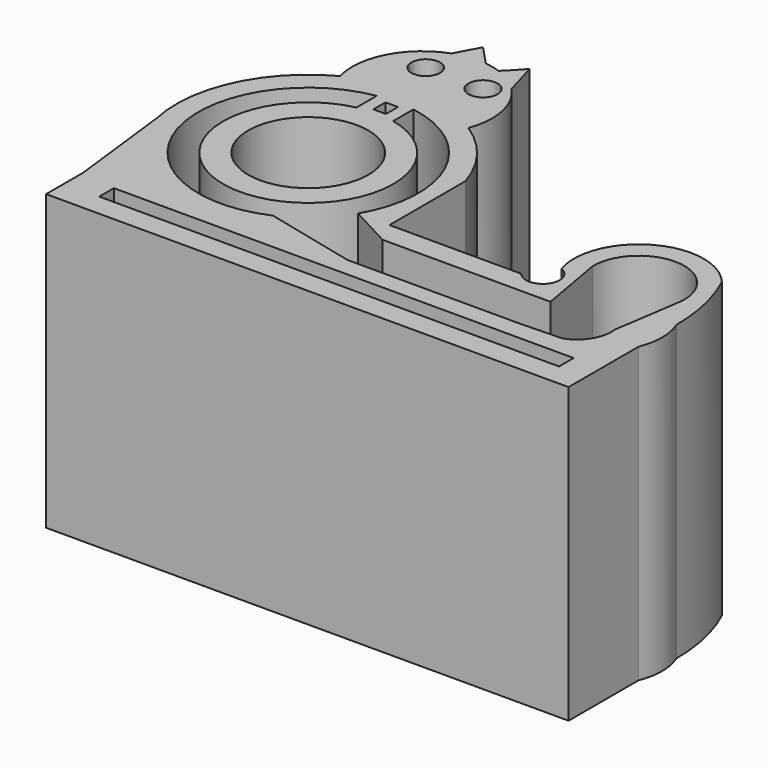
from build123d import *

# Parameters (mm, degrees)
F0_R     = 15.340431
F0_W     = 117.403897
F0_H     = 4.661302
F0_W_2   = 3.196411
F0_H_2   = 3.862329
F0_R_2   = 3.64723
F0_R_3   = 3.720558
F1_DEPTH = 75


with BuildPart() as f1:
    # F0 (on Top) → F1 (new body)
    with BuildSketch(Plane.XY):
        with BuildLine():
            Line((-58.521602, 61.1124), (-61.772077, 55.078118))
            ThreePointArc((-61.772077, 55.078118), (-71.604495, 46.532718), (-73.018577, 33.582788))
            ThreePointArc((-73.018577, 33.582788), (-87.815801, 18.034959), (-90.210438, -3.294798))
            Line((-90.210438, -3.294798), (-86.936988, -30.9372))
            Line((-86.936988, -30.9372), (-86.936988, -42.824399))
            Line((-86.936988, -42.824399), (46.459011, -42.824399))
            Line((46.459011, -42.824399), (46.459011, -30.9372))
            Line((46.459011, -30.9372), (46.459011, -20.458747))
            ThreePointArc((46.459011, -20.458747), (47.648674, -14.445786), (46.459011, -8.432826))
            ThreePointArc((46.459011, -8.432826), (45.324502, 1.897215), (41.97506, 11.734799))
            ThreePointArc((41.97506, 11.734799), (21.307643, 15.69021), (13.402481, -3.810965))
            ThreePointArc((13.402481, -3.810965), (15.404942, -10.407699), (8.51148, -10.490845))
            Line((8.51148, -10.490845), (-25.135151, -10.490845))
            Line((-25.135151, -10.490845), (-25.135151, 13.744038))
            ThreePointArc((-25.135151, 13.744038), (-30.46254, 24.13336), (-39.01803, 32.078337))
            ThreePointArc((-39.01803, 32.078337), (-38.285536, 41.861936), (-42.830876, 50.556489))
            Line((-42.830876, 50.556489), (-45.4152, 59.588399))
            Line((-45.4152, 59.588399), (-48.767999, 55.994417))
            Line((-48.767999, 55.994417), (-49.755256, 55.067593))
            ThreePointArc((-49.755256, 55.067593), (-51.709603, 55.644175), (-53.716903, 55.994417))
            Line((-53.716903, 55.994417), (-58.521602, 61.1124))
        make_face()
        with Locations((-57.3024, 3.81)):
            Circle(F0_R, mode=Mode.SUBTRACT)
        with BuildLine():
            ThreePointArc((-45.830837, -21.819077), (-84.177666, -4.324276), (-61.968463, 31.498883))
            Line((-61.968463, 31.498883), (-61.968463, 25.026508))
            ThreePointArc((-61.968463, 25.026508), (-57.320326, -17.913536), (-52.601331, 25.018779))
            Line((-52.601331, 25.018779), (-52.601331, 31.40402))
            ThreePointArc((-52.601331, 31.40402), (-52.618594, 31.45154), (-52.636338, 31.498883))
            ThreePointArc((-52.636338, 31.498883), (-52.618833, 31.495927), (-52.601331, 31.492961))
            ThreePointArc((-52.601331, 31.492961), (-31.826439, 15.617698), (-33.140405, -10.495395))
            Line((-33.140405, -10.495395), (-22.23804, -16.301554))
            Line((-22.23804, -16.301554), (20.632035, -16.301554))
            Line((20.632035, -16.301554), (17.587513, 0.908205))
            ThreePointArc((17.587513, 0.908205), (29.687158, 12.762883), (40.824645, 0))
            Line((40.824645, 0), (38.170705, -17.655724))
            ThreePointArc((38.170705, -17.655724), (36.971966, -23.429945), (32.413911, -27.171969))
            Line((32.413911, -27.171969), (21.76258, -27.492464))
            Line((21.76258, -27.492464), (-22.23804, -27.492464))
            Line((-22.23804, -27.492464), (-45.830837, -21.819077))
        make_face(mode=Mode.SUBTRACT)
        with Locations((-19.28743, -34.715703)):
            Rectangle(F0_W, F0_H, mode=Mode.SUBTRACT)
        with Locations((-57.248685, 28.451034)):
            Rectangle(F0_W_2, F0_H_2, mode=Mode.SUBTRACT)
        with Locations((-61.931439, 47.0916)):
            Circle(F0_R_2, mode=Mode.SUBTRACT)
        with Locations((-47.301039, 47.0916)):
            Circle(F0_R_3, mode=Mode.SUBTRACT)
    extrude(amount=F1_DEPTH)


solid = f1.part
